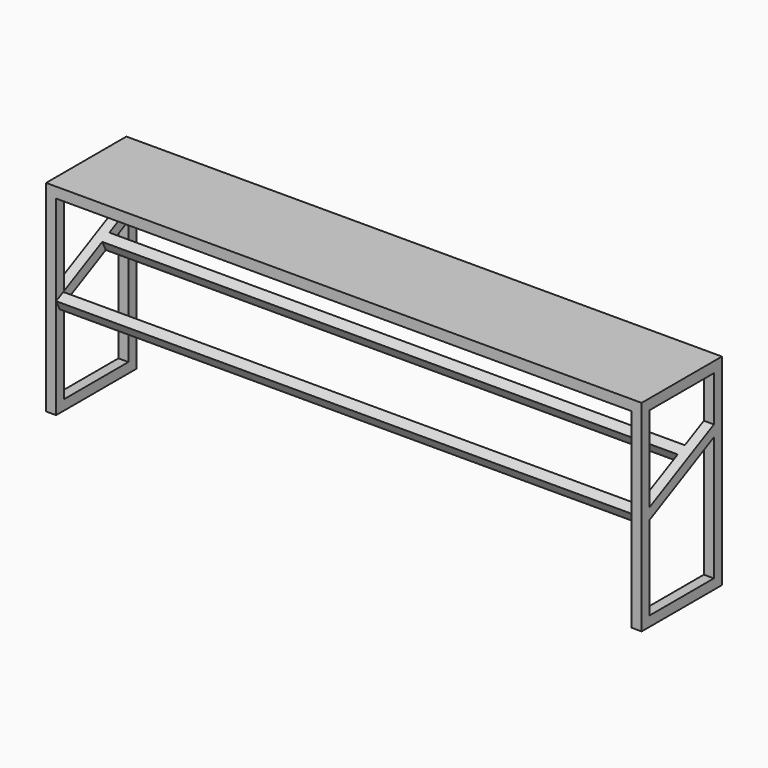
from build123d import *

# Parameters (mm, degrees)
F2_W          = 300
F2_H          = 600
F3_DEPTH      = 30
F4_W          = 300
F4_H          = 600
F5_DEPTH      = 30
F6_W          = 30
F6_H          = 30
F7_DEPTH      = 860
F7_DEPTH_BACK = 860
F8_W          = 1780
F8_H          = 300
F9_DEPTH      = 1.5


with BuildPart() as f3:
    # F2 (on Right) → F3 (new body)
    with BuildSketch(Plane.YZ):
        with Locations((-150, 300)):
            Rectangle(F2_W, F2_H)
        Polygon((-270, 30), (-270, 281.45898), (-30, 401.45898), (-30, 30), align=None, mode=Mode.SUBTRACT)
        Polygon((-30, 570), (-30, 435), (-270, 315), (-270, 570), align=None, mode=Mode.SUBTRACT)
    extrude(amount=F3_DEPTH)



with BuildPart() as f5:
    # F4 (on offset) → F5 (new body)
    with BuildSketch(Plane.YZ.offset(1780)):
        with Locations((-150, 300)):
            Rectangle(F4_W, F4_H)
        Polygon((-270, 30), (-270, 281.45898), (-30, 401.45898), (-30, 30), align=None, mode=Mode.SUBTRACT)
        Polygon((-30, 570), (-30, 435), (-270, 315), (-270, 570), align=None, mode=Mode.SUBTRACT)
    extrude(amount=-F5_DEPTH)


with BuildPart() as f3_1:
    add(f3.part)

    add(f5.part)  # F7 merges F5
    # F6 (on offset) → F7 (join, two sides)
    with BuildSketch(Plane.YZ.offset(890)) as f7_sk:
        Polygon((-273.167184, 313.416408), (-300, 300), (-286.583592, 273.167184), (-259.750776, 286.583592), align=None)
        with Locations((-15, 585)):
            Rectangle(F6_W, F6_H)
        with Locations((-285, 585)):
            Rectangle(F6_W, F6_H)
        Polygon((-100.98995, 399.505025), (-127.822766, 386.088617), (-114.406358, 359.255801), (-87.573542, 372.672209), align=None)
    extrude(amount=F7_DEPTH)
    extrude(f7_sk.sketch, amount=-F7_DEPTH_BACK)

    # F8 (on face) → F9 (join)
    with BuildSketch(Plane.XY.offset(600)):
        with Locations((890, -150)):
            Rectangle(F8_W, F8_H)
    extrude(amount=F9_DEPTH)


solid = f3_1.part
